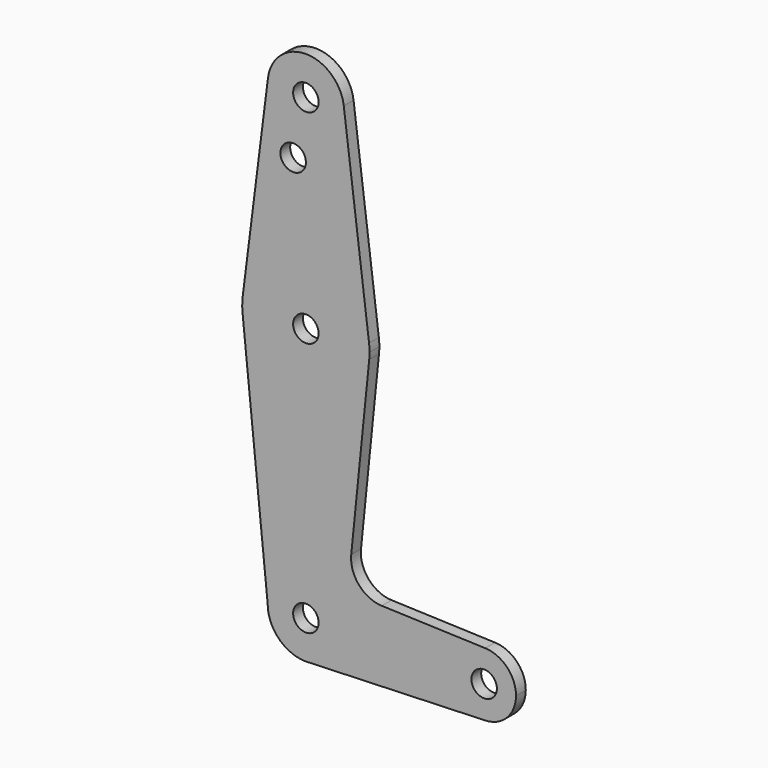
from build123d import *

# Parameters (mm, degrees)
F0_R     = 3.175
F1_DEPTH = 3.048


with BuildPart() as f1:
    # F0 (on Front) → F1 (new body)
    with BuildSketch(Plane.XZ):
        with BuildLine():
            Line((0.6773435479, -9.500885786), (0, -9.525))
            ThreePointArc((0, -9.525), (0.3388863295, -9.5189695375), (0.6773435479, -9.500885786))
        make_face()
        with BuildLine():
            ThreePointArc((-9.4502929642, 115.490625), (-0.596483242, 104.7936951058), (9.525, 114.3))
            ThreePointArc((9.525, 114.3), (9.5063048942, 114.896483242), (9.4502929642, 115.490625))
            ThreePointArc((9.4502929642, 115.490625), (0, 123.825), (-9.4502929642, 115.490625))
        make_face()
        with Locations((0, 114.3)):
            Circle(F0_R, mode=Mode.SUBTRACT)
        with BuildLine():
            ThreePointArc((52.3875, 0), (50.1616327839, 5.5119104847), (44.7324052746, 7.9324746146))
            ThreePointArc((44.7324052746, 7.9324746146), (36.5125, 0), (44.7324052746, -7.9324746146))
            ThreePointArc((44.7324052746, -7.9324746146), (50.1616327839, -5.5119104847), (52.3875, 0))
        make_face()
        with Locations((44.45, 0)):
            Circle(F0_R, mode=Mode.SUBTRACT)
        with BuildLine():
            ThreePointArc((15.875, 63.5), (15.8438414904, 64.4941387366), (15.7504882737, 65.484375))
            ThreePointArc((15.7504882737, 65.484375), (0, 79.375), (-15.7504882737, 65.484375))
            ThreePointArc((-15.7504882737, 65.484375), (-15.8738192656, 63.6936154008), (-15.7942028036, 61.9003804205))
            ThreePointArc((-15.7942028036, 61.9003804205), (0, 47.625), (15.7942028036, 61.9003804205))
            ThreePointArc((15.7942028036, 61.9003804205), (15.8547878338, 62.6991705884), (15.875, 63.5))
        make_face()
        with Locations((0, 63.5)):
            Circle(F0_R, mode=Mode.SUBTRACT)
        with BuildLine():
            ThreePointArc((15.7942028036, 61.9003804205), (0, 47.625), (-15.7942028036, 61.9003804205))
            Line((-15.7942028036, 61.9003804205), (-9.525, 0))
            ThreePointArc((-9.525, 0), (0, 9.525), (9.525, 0))
            ThreePointArc((9.525, 0), (6.9705567315, -6.4912990883), (0.6773435479, -9.500885786))
            Line((0.6773435479, -9.500885786), (44.7324052746, -7.9324746146))
            ThreePointArc((44.7324052746, -7.9324746146), (36.5125, 0), (44.7324052746, 7.9324746146))
            Line((44.7324052746, 7.9324746146), (18.9341027877, 8.850924033))
            ThreePointArc((18.9341027877, 8.850924033), (13.2249738114, 11.5709798305), (11.3072231466, 17.5971800924))
            Line((11.3072231466, 17.5971800924), (15.7942028036, 61.9003804205))
        make_face()
        with BuildLine():
            ThreePointArc((9.525, 0), (0, 9.525), (-9.525, 0))
            ThreePointArc((-9.525, 0), (-6.7351920908, -6.7351920908), (0, -9.525))
            Line((0, -9.525), (0.6773435479, -9.500885786))
            ThreePointArc((0.6773435479, -9.500885786), (6.9705567315, -6.4912990883), (9.525, 0))
        make_face()
        Circle(F0_R, mode=Mode.SUBTRACT)
        with BuildLine():
            ThreePointArc((9.4502929642, 115.490625), (9.5063048942, 114.896483242), (9.525, 114.3))
            ThreePointArc((9.525, 114.3), (-0.596483242, 104.7936951058), (-9.4502929642, 115.490625))
            Line((-9.4502929642, 115.490625), (-15.7504882737, 65.484375))
            ThreePointArc((-15.7504882737, 65.484375), (0, 79.375), (15.7504882737, 65.484375))
            Line((15.7504882737, 65.484375), (9.4502929642, 115.490625))
        make_face()
        with Locations((-3.175, 100.0252)):
            Circle(F0_R, mode=Mode.SUBTRACT)
    extrude(amount=F1_DEPTH)


solid = f1.part
